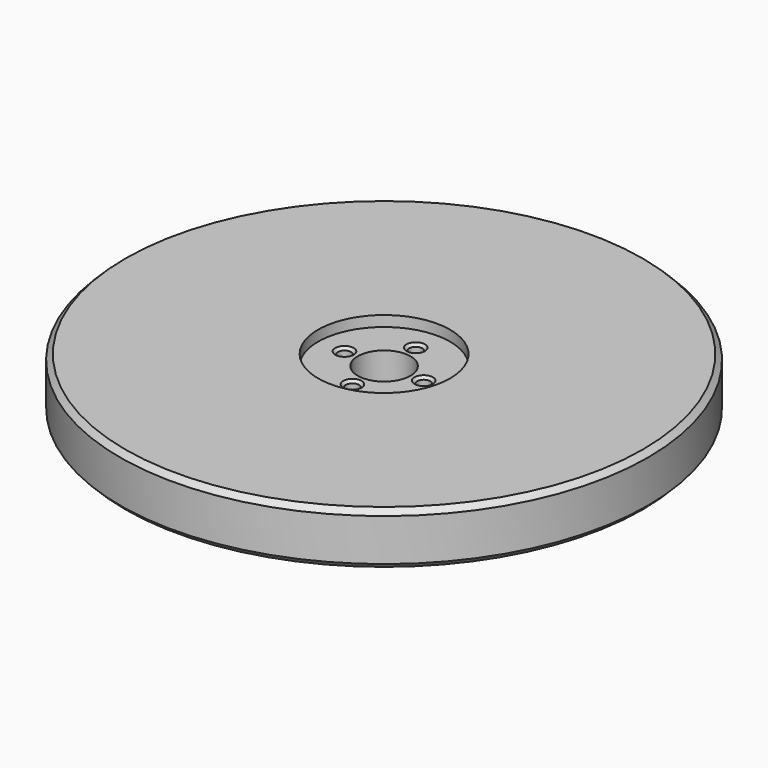
from build123d import *

# Parameters (mm, degrees)
F0_R     = 50
F0_R_2   = 12.5
F1_DEPTH = 10
F2_DEPTH = 8
F3_R     = 5
F3_R_2   = 1.25
F4_DEPTH = 25
F5_SIZE  = 1
F6_SIZE  = 0.5


with BuildPart() as f1:
    # F0 (on Top) → F1 (new body)
    with BuildSketch(Plane.XY):
        Circle(F0_R)
        Circle(F0_R_2, mode=Mode.SUBTRACT)
    extrude(amount=F1_DEPTH)

    # F0 (on Top) → F2 (join)
    with BuildSketch(Plane.XY):
        Circle(F0_R_2)
    extrude(amount=F2_DEPTH)

    # F3 (on face) → F4 (cut)
    with BuildSketch(Plane.XY.offset(8)):
        Circle(F3_R)
        with Locations((-7.5, 0)):
            Circle(F3_R_2)
        with Locations((0, 7.5)):
            Circle(F3_R_2)
        with Locations((7.5, 0)):
            Circle(F3_R_2)
        with Locations((0, -7.5)):
            Circle(F3_R_2)
    extrude(amount=-F4_DEPTH, mode=Mode.SUBTRACT)

    # F5
    f5_edges = [f1.edges().sort_by_distance(p)[0] for p in [
        (-50, 0, 0),
        (-50, 0, 10),
    ]]
    chamfer(f5_edges, length=F5_SIZE)

    # F6
    f6_edges = [f1.edges().sort_by_distance(p)[0] for p in [
        (-8.75, 0, 0),
        (-1.25, -7.5, 0),
        (6.25, 0, 0),
        (-1.25, 7.5, 0),
        (6.25, 0, 8),
        (-1.25, -7.5, 8),
        (-1.25, 7.5, 8),
        (-8.75, 0, 8),
    ]]
    chamfer(f6_edges, length=F6_SIZE)


solid = f1.part
